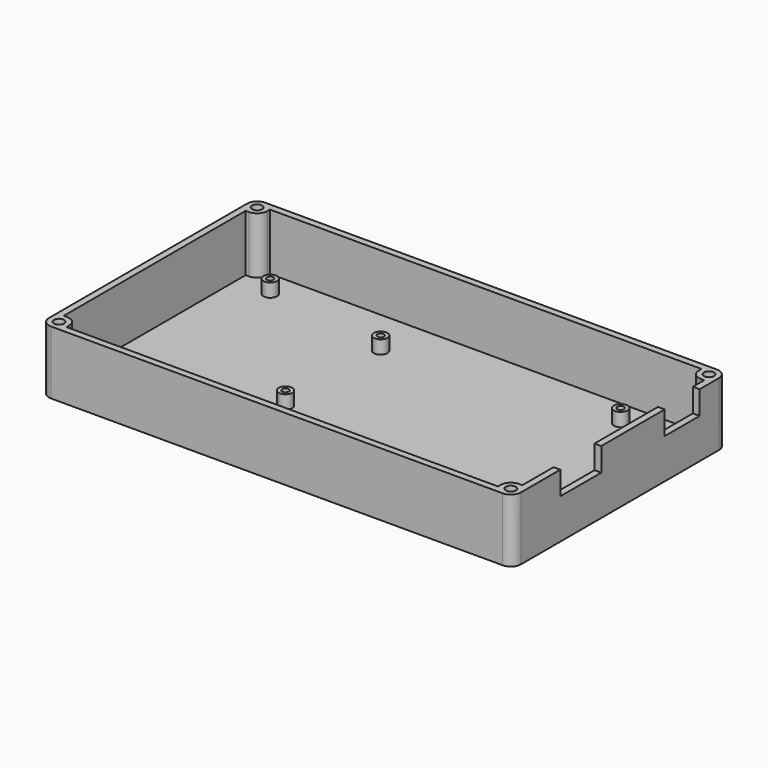
from build123d import *

# Parameters (mm, degrees)
F1_W      = 111.125
F1_H      = 63.0682
F2_DEPTH  = 1.5875
F3_W      = 111.125
F3_H      = 63.0682
F3_R      = 1.190625
F4_DEPTH  = 13.335
F5_R      = 2.38125
F6_W      = 12.065
F6_H      = 5.5245
F6_W_2    = 10.287
F7_DEPTH  = 1.5875
F8_R      = 1.5875
F8_R_2    = 0.79375
F9_DEPTH  = 3.175
F10_R     = 1.190625
F11_DEPTH = 14.9235


with BuildPart() as f2:
    # F1 (on Top) → F2 (new body)
    with BuildSketch(Plane.XY):
        Rectangle(F1_W, F1_H)
    extrude(amount=F2_DEPTH)

    # F3 (on face) → F4 (join)
    with BuildSketch(Plane.XY.offset(1.5875)):
        Rectangle(F3_W, F3_H)
        with Locations((-53.18125, -29.15285)):
            Circle(F3_R, mode=Mode.SUBTRACT)
        with Locations((53.18125, -29.15285)):
            Circle(F3_R, mode=Mode.SUBTRACT)
        with BuildLine():
            Line((53.18125, 26.7716), (53.975, 26.7716))
            Line((53.975, 26.7716), (53.975, -26.7716))
            Line((53.975, -26.7716), (53.18125, -26.7716))
            ThreePointArc((53.18125, -26.7716), (51.497452, -27.469052), (50.8, -29.15285))
            Line((50.8, -29.15285), (50.8, -29.9466))
            Line((50.8, -29.9466), (-50.8, -29.9466))
            Line((-50.8, -29.9466), (-50.8, -29.15285))
            ThreePointArc((-50.8, -29.15285), (-51.497452, -27.469052), (-53.18125, -26.7716))
            Line((-53.18125, -26.7716), (-53.975, -26.7716))
            Line((-53.975, -26.7716), (-53.975, 26.7716))
            Line((-53.975, 26.7716), (-53.18125, 26.7716))
            ThreePointArc((-53.18125, 26.7716), (-51.497452, 27.469052), (-50.8, 29.15285))
            Line((-50.8, 29.15285), (-50.8, 29.9466))
            Line((-50.8, 29.9466), (50.8, 29.9466))
            Line((50.8, 29.9466), (50.8, 29.15285))
            ThreePointArc((50.8, 29.15285), (51.497452, 27.469052), (53.18125, 26.7716))
        make_face(mode=Mode.SUBTRACT)
        with Locations((-53.18125, 29.15285)):
            Circle(F3_R, mode=Mode.SUBTRACT)
        with Locations((53.18125, 29.15285)):
            Circle(F3_R, mode=Mode.SUBTRACT)
    extrude(amount=F4_DEPTH)

    # F5
    f5_edges = [f2.edges().sort_by_distance(p)[0] for p in [
        (55.5625, -31.5341, 7.46125),
        (55.5625, 31.5341, 7.46125),
        (-55.5625, -31.5341, 7.46125),
        (-55.5625, 31.5341, 7.46125),
    ]]
    fillet(f5_edges, radius=F5_R)

    # F6 (on face) → F7 (cut, through all)
    with BuildSketch(Plane.YZ.offset(55.5625)):
        with Locations((-11.557, 12.16025)):
            Rectangle(F6_W, F6_H)
        with Locations((18.288, 12.16025)):
            Rectangle(F6_W_2, F6_H)
    extrude(amount=-F7_DEPTH, mode=Mode.SUBTRACT)

    # F8 (on face) → F9 (join)
    with BuildSketch(Plane.XY.offset(1.5875)):
        with Locations((-45.8, 23.7716)):
            Circle(F8_R)
        with Locations((-45.8, 23.7716)):
            Circle(F8_R_2, mode=Mode.SUBTRACT)
        with Locations((-39.3, -24.2284)):
            Circle(F8_R)
        with Locations((-39.3, -24.2284)):
            Circle(F8_R_2, mode=Mode.SUBTRACT)
        with Locations((-15.8, 18.7716)):
            Circle(F8_R)
        with Locations((-15.8, 18.7716)):
            Circle(F8_R_2, mode=Mode.SUBTRACT)
        with Locations((-15.8, -9.2284)):
            Circle(F8_R)
        with Locations((-15.8, -9.2284)):
            Circle(F8_R_2, mode=Mode.SUBTRACT)
        with Locations((36.7, 23.7716)):
            Circle(F8_R)
        with Locations((36.7, 23.7716)):
            Circle(F8_R_2, mode=Mode.SUBTRACT)
        with Locations((36.7, -24.2284)):
            Circle(F8_R)
        with Locations((36.7, -24.2284)):
            Circle(F8_R_2, mode=Mode.SUBTRACT)
    extrude(amount=F9_DEPTH)

    # F10 (on face) → F11 (cut, through all)
    with BuildSketch(Plane.XY.offset(14.9225)):
        with Locations((-53.18125, 29.15285)):
            Circle(F10_R)
        with Locations((-53.18125, -29.15285)):
            Circle(F10_R)
        with Locations((53.18125, -29.15285)):
            Circle(F10_R)
        with Locations((53.18125, 29.15285)):
            Circle(F10_R)
    extrude(amount=-F11_DEPTH, mode=Mode.SUBTRACT)


solid = f2.part
